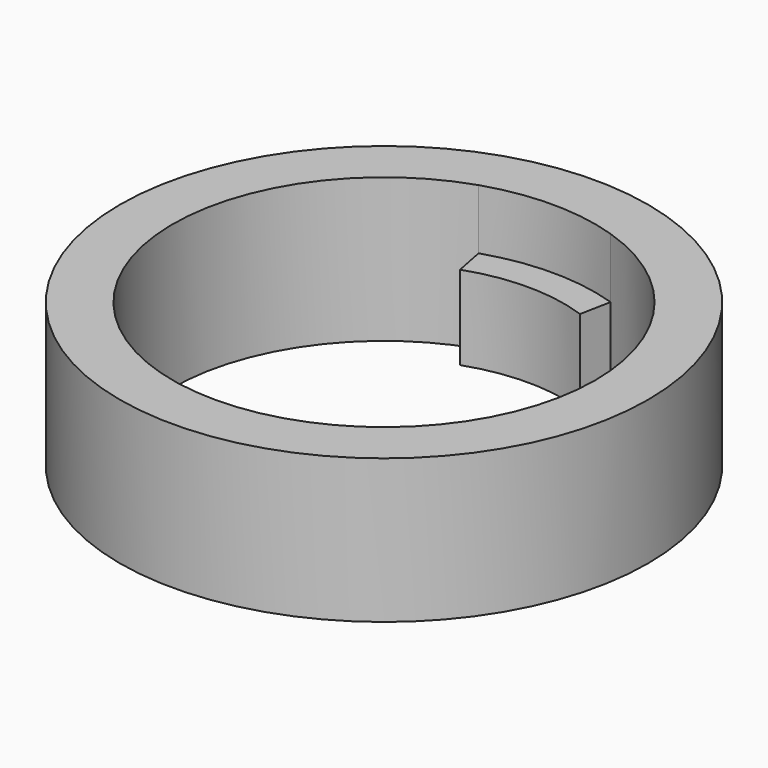
from build123d import *

# Parameters (mm, degrees)
F0_R     = 22
F1_DEPTH = 12
F2_DEPTH = 7


with BuildPart() as f1:
    # F0 (on Top) → F1 (new body)
    with BuildSketch(Plane.XY):
        Circle(F0_R)
        with BuildLine():
            ThreePointArc((5.5, 16.718553), (14.25763, 10.318915), (17.6, 0))
            ThreePointArc((17.6, 0), (13.594116, -11.178551), (3.4, -17.268468))
            ThreePointArc((3.4, -17.268468), (0, -17.6), (-3.4, -17.268468))
            ThreePointArc((-3.4, -17.268468), (-17.566499, -1.085404), (-5.5, 16.718553))
            ThreePointArc((-5.5, 16.718553), (0, 17.6), (5.5, 16.718553))
        make_face(mode=Mode.SUBTRACT)
    extrude(amount=F1_DEPTH)

    # F0 (on Top) → F2 (join)
    with BuildSketch(Plane.XY):
        with BuildLine():
            Line((5, 14.167082), (5.5, 16.718553))
            ThreePointArc((5.5, 16.718553), (0, 17.6), (-5.5, 16.718553))
            Line((-5.5, 16.718553), (-5, 14.167082))
            ThreePointArc((-5, 14.167082), (0, 15.023522), (5, 14.167082))
        make_face()
        with BuildLine():
            ThreePointArc((-3.4, -17.268468), (0, -17.6), (3.4, -17.268468))
            Line((3.4, -17.268468), (2.9, -14.921129))
            ThreePointArc((2.9, -14.921129), (0, -15.200332), (-2.9, -14.921129))
            Line((-2.9, -14.921129), (-3.4, -17.268468))
        make_face()
    extrude(amount=F2_DEPTH)


solid = f1.part
